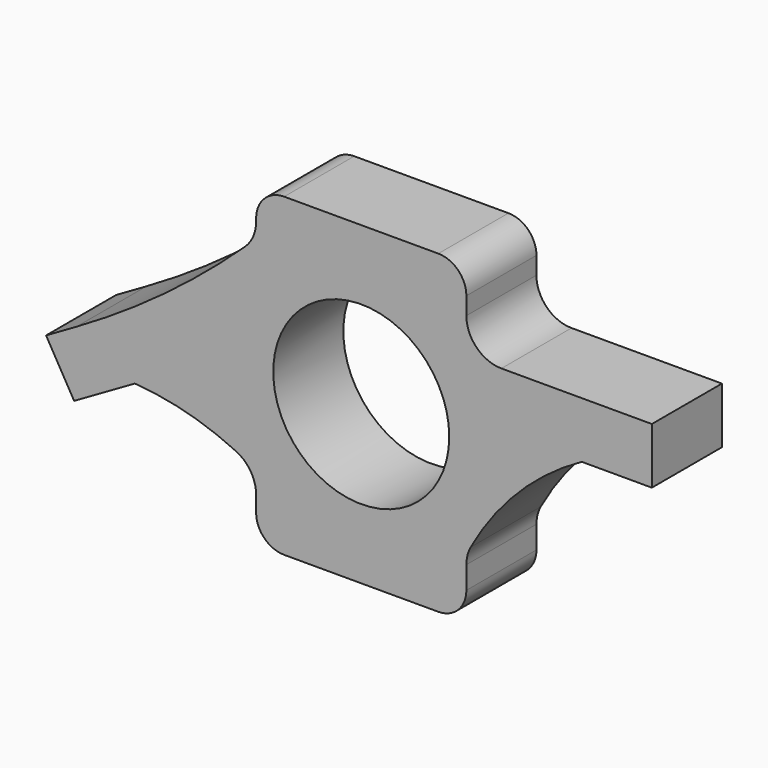
from build123d import *

# Parameters (mm, degrees)
F0_R     = 25.114737
F1_DEPTH = 25


with BuildPart() as f1:
    # F0 (on Front) → F1 (new body)
    with BuildSketch(Plane.XZ):
        with BuildLine():
            Line((22, 45), (-22, 45))
            ThreePointArc((-22, 45), (-27.656854, 42.656854), (-30, 37))
            Line((-30, 37), (-30, 36.104724))
            ThreePointArc((-30, 36.104724), (-30.820802, 32.137065), (-33.148464, 28.820738))
            ThreePointArc((-33.148464, 28.820738), (-56.183078, 9.536368), (-81.288395, -6.962221))
            Line((-81.288395, -6.962221), (-89.948649, -11.962221))
            Line((-89.948649, -11.962221), (-81.948649, -25.818628))
            Line((-81.948649, -25.818628), (-64.62814, -15.818628))
            ThreePointArc((-64.62814, -15.818628), (-49.79684, -18.269653), (-35.685901, -23.451967))
            ThreePointArc((-35.685901, -23.451967), (-31.540065, -27.141595), (-30, -32.473527))
            Line((-30, -32.473527), (-30, -37))
            ThreePointArc((-30, -37), (-27.656854, -42.656854), (-22, -45))
            Line((-22, -45), (22, -45))
            ThreePointArc((22, -45), (27.656854, -42.656854), (30, -37))
            Line((30, -37), (30, -30.562146))
            ThreePointArc((30, -30.562146), (30.311078, -28.087316), (31.224957, -25.766459))
            ThreePointArc((31.224957, -25.766459), (44.806448, -7.613773), (62.934936, 6))
            Line((62.934936, 6), (82.934936, 6))
            Line((82.934936, 6), (82.934936, 22))
            Line((82.934936, 22), (40, 22))
            ThreePointArc((40, 22), (32.928932, 24.928932), (30, 32))
            Line((30, 32), (30, 37))
            ThreePointArc((30, 37), (27.656854, 42.656854), (22, 45))
        make_face()
        Circle(F0_R, mode=Mode.SUBTRACT)
    extrude(amount=F1_DEPTH)


solid = f1.part
